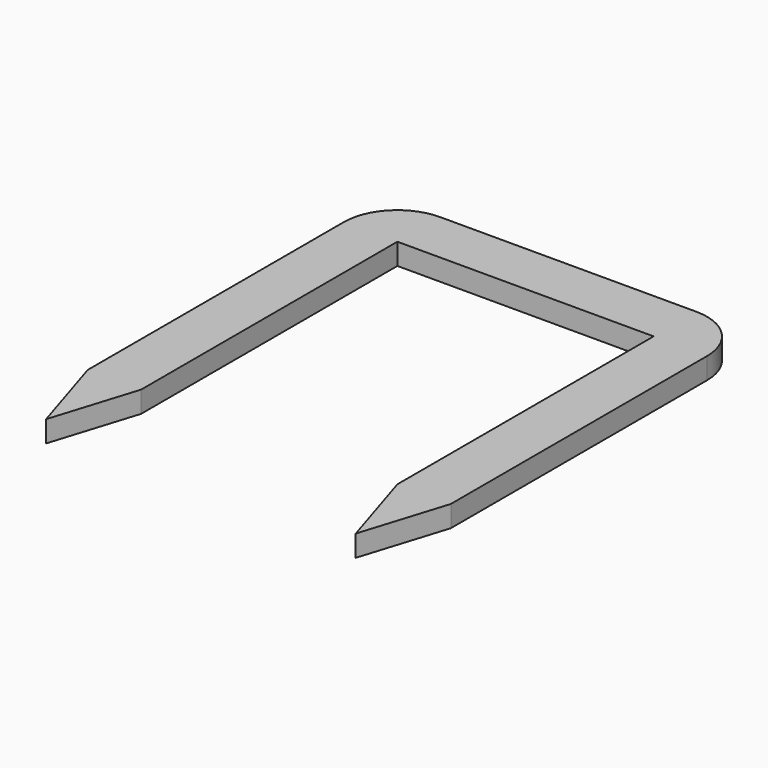
from build123d import *

# Parameters (mm, degrees)
F1_DEPTH = 2


with BuildPart() as f1:
    # F0 (on Top) → F1 (new body)
    with BuildSketch(Plane.XY):
        with BuildLine():
            Line((-11.243236, 9.986477), (-11.243236, -20.013523))
            Line((-11.243236, -20.013523), (-8.743236, -28.013523))
            Line((-8.743236, -28.013523), (-6.243236, -20.013523))
            Line((-6.243236, -20.013523), (-6.243236, 9.986477))
            Line((-6.243236, 9.986477), (17.756764, 9.986477))
            Line((17.756764, 9.986477), (17.756764, -20.013523))
            Line((17.756764, -20.013523), (20.256763, -28.013523))
            Line((20.256763, -28.013523), (22.756764, -20.013523))
            Line((22.756764, -20.013523), (22.756764, 9.986477))
            ThreePointArc((22.756764, 9.986477), (21.292298, 13.522011), (17.756764, 14.986477))
            Line((17.756764, 14.986477), (-6.243236, 14.986477))
            ThreePointArc((-6.243236, 14.986477), (-9.77877, 13.522011), (-11.243236, 9.986477))
        make_face()
    extrude(amount=F1_DEPTH)


solid = f1.part
